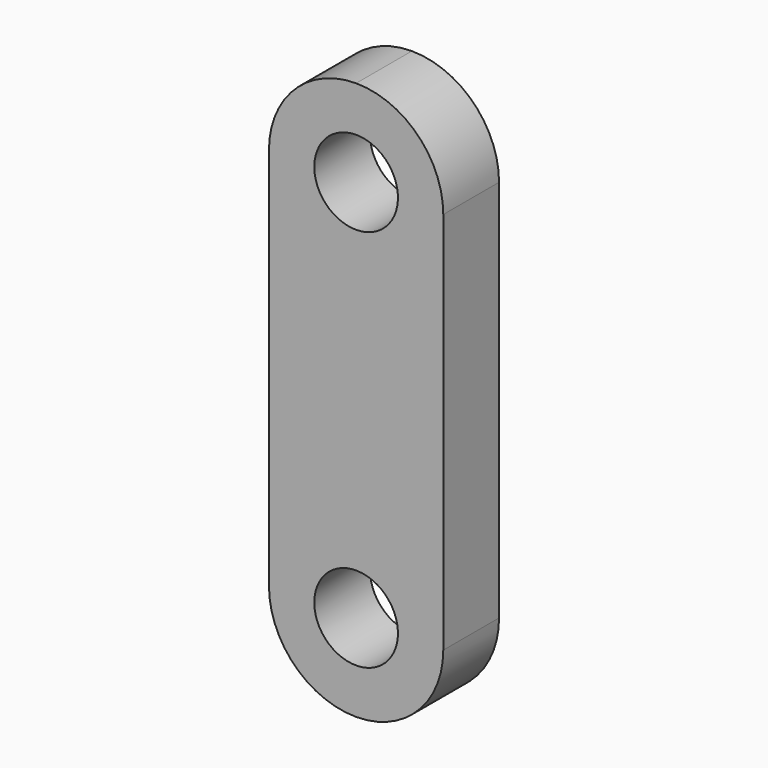
from build123d import *

# Parameters (mm, degrees)
F1_DEPTH = 10
F2_D     = 12
F2_DEPTH = 30


with BuildPart() as f1:
    # F0 (on Front) → F1 (new body)
    with BuildSketch(Plane.XZ):
        with BuildLine():
            ThreePointArc((0, -40), (8.838835, -36.338835), (12.5, -27.5))
            Line((12.5, -27.5), (12.5, 27.5))
            ThreePointArc((12.5, 27.5), (8.838835, 36.338835), (0, 40))
            ThreePointArc((0, 40), (-8.838835, 36.338835), (-12.5, 27.5))
            Line((-12.5, 27.5), (-12.5, -27.5))
            ThreePointArc((-12.5, -27.5), (-8.838835, -36.338835), (0, -40))
        make_face()
    extrude(amount=F1_DEPTH)

    # F2
    with Locations(Plane(origin=(0, 0, 0), x_dir=(1, 0, 0), z_dir=(0, 1, 0))):
        with Locations((0, 27.5), (0, -27.5)):
            Hole(F2_D / 2, depth=F2_DEPTH)


solid = f1.part
